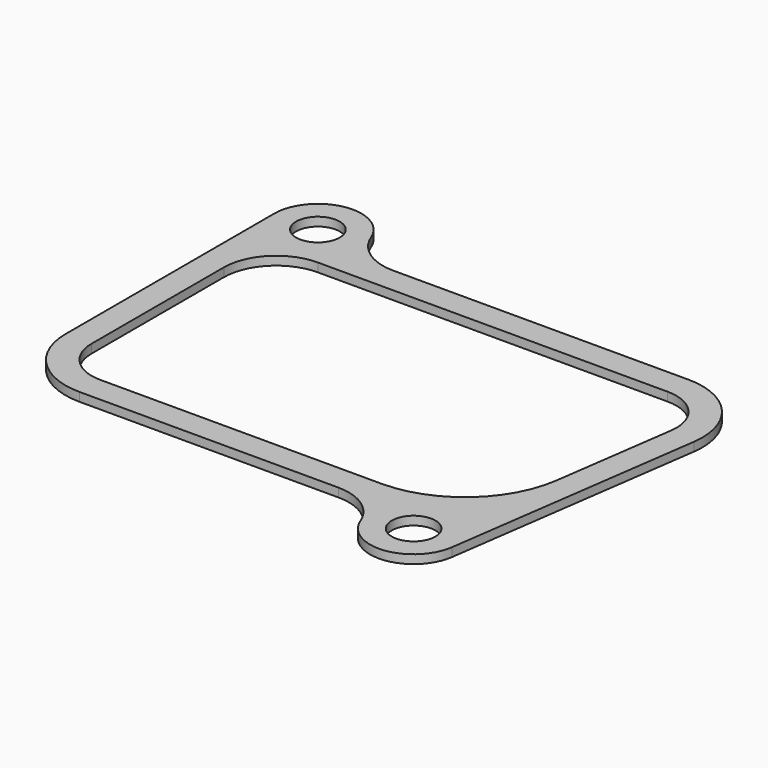
from build123d import *

# Parameters (mm, degrees)
SKETCH_R  = 5
PAD_DEPTH = 2


with BuildPart() as part:
    # Sketch → Pad (new body)
    with BuildSketch(Plane.XY):
        with BuildLine():
            Line((-22.506098, 36), (45.373485, 36))
            ThreePointArc((61.217774, 17.77323), (57.448838, 30.496944), (45.373485, 36))
            Line((61.217774, 17.77323), (52.902681, -41.391731))
            ThreePointArc((33.68459, -43.636364), (44.160093, -49.932481), (52.902681, -41.391731))
            ThreePointArc((33.68459, -43.636364), (29.275011, -38.091326), (22.506098, -36))
            Line((22.506098, -36), (-37, -36))
            ThreePointArc((-53, -20), (-48.313708, -31.313708), (-37, -36))
            Line((-53, -20), (-53, 40))
            ThreePointArc((-33.68459, 43.636364), (-44.850122, 49.827362), (-53, 40))
            ThreePointArc((-33.68459, 43.636364), (-29.275011, 38.091326), (-22.506098, 36))
        make_face()
        with Locations((-43, 40)):
            Circle(SKETCH_R, mode=Mode.SUBTRACT)
        with Locations((43, -40)):
            Circle(SKETCH_R, mode=Mode.SUBTRACT)
        with BuildLine():
            Line((-35, 30), (45.373485, 30))
            ThreePointArc((55.276165, 18.608269), (52.92058, 26.56059), (45.373485, 30))
            Line((55.276165, 18.608269), (51.348271, -9.340154))
            ThreePointArc((27.581837, -30), (43.327254, -24.11303), (51.348271, -9.340154))
            Line((27.581837, -30), (-37, -30))
            ThreePointArc((-47, -20), (-44.071068, -27.071068), (-37, -30))
            Line((-47, -20), (-47, 18))
            ThreePointArc((-35, 30), (-43.485281, 26.485281), (-47, 18))
        make_face(mode=Mode.SUBTRACT)
    extrude(amount=PAD_DEPTH)


solid = part.part
